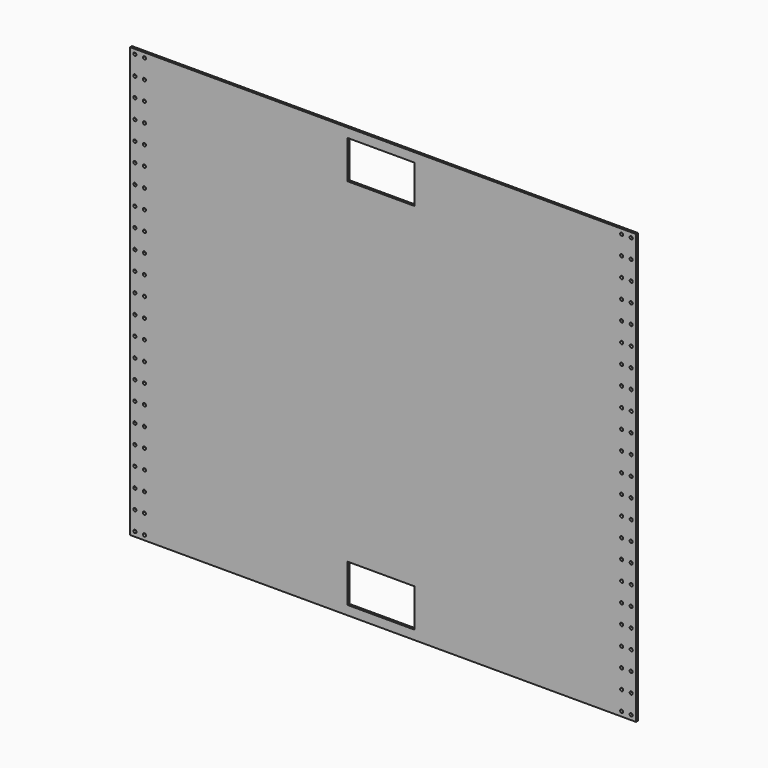
from build123d import *

# Parameters (mm, degrees)
F0_W     = 673.1
F0_H     = 571.5
F1_DEPTH = 3.175
F2_R     = 2.0701
F3_DEPTH = 25.4
F4_W     = 88.9
F4_H     = 50.8
F5_DEPTH = 25.4


with BuildPart() as f1:
    # F0 (on Front) → F1 (new body)
    with BuildSketch(Plane.XZ):
        Rectangle(F0_W, F0_H)
    extrude(amount=F1_DEPTH)

    # F2 (on face) → F3 (cut)
    with BuildSketch(Plane.XZ.offset(3.175)):
        with Locations((-330.2, -279.4)):
            Circle(F2_R)
        with Locations((-317.5, -279.4)):
            Circle(F2_R)
        with Locations((-317.5, -254)):
            Circle(F2_R)
        with Locations((-330.2, -254)):
            Circle(F2_R)
        with Locations((-330.2, -228.6)):
            Circle(F2_R)
        with Locations((-317.5, -228.6)):
            Circle(F2_R)
        with Locations((-317.5, -203.2)):
            Circle(F2_R)
        with Locations((-330.2, -203.2)):
            Circle(F2_R)
        with Locations((-330.2, -177.8)):
            Circle(F2_R)
        with Locations((-317.5, -177.8)):
            Circle(F2_R)
        with Locations((-317.5, -152.4)):
            Circle(F2_R)
        with Locations((-330.2, -152.4)):
            Circle(F2_R)
        with Locations((-330.2, -127)):
            Circle(F2_R)
        with Locations((-317.5, -127)):
            Circle(F2_R)
        with Locations((-317.5, -101.6)):
            Circle(F2_R)
        with Locations((-330.2, -101.6)):
            Circle(F2_R)
        with Locations((-330.2, -76.2)):
            Circle(F2_R)
        with Locations((-317.5, -76.2)):
            Circle(F2_R)
        with Locations((-317.5, -50.8)):
            Circle(F2_R)
        with Locations((-330.2, -50.8)):
            Circle(F2_R)
        with Locations((-330.2, -25.4)):
            Circle(F2_R)
        with Locations((-317.5, -25.4)):
            Circle(F2_R)
        with Locations((-330.2, 0)):
            Circle(F2_R)
        with Locations((-317.5, 0)):
            Circle(F2_R)
        with Locations((-317.5, 25.4)):
            Circle(F2_R)
        with Locations((-330.2, 25.4)):
            Circle(F2_R)
        with Locations((-330.2, 50.8)):
            Circle(F2_R)
        with Locations((-317.5, 50.8)):
            Circle(F2_R)
        with Locations((-317.5, 76.2)):
            Circle(F2_R)
        with Locations((-330.2, 76.2)):
            Circle(F2_R)
        with Locations((-330.2, 101.6)):
            Circle(F2_R)
        with Locations((-317.5, 101.6)):
            Circle(F2_R)
        with Locations((-330.2, 127)):
            Circle(F2_R)
        with Locations((-317.5, 127)):
            Circle(F2_R)
        with Locations((-317.5, 152.4)):
            Circle(F2_R)
        with Locations((-330.2, 152.4)):
            Circle(F2_R)
        with Locations((-330.2, 177.8)):
            Circle(F2_R)
        with Locations((-317.5, 177.8)):
            Circle(F2_R)
        with Locations((-317.5, 203.2)):
            Circle(F2_R)
        with Locations((-330.2, 203.2)):
            Circle(F2_R)
        with Locations((-330.2, 228.6)):
            Circle(F2_R)
        with Locations((-317.5, 228.6)):
            Circle(F2_R)
        with Locations((-317.5, 254)):
            Circle(F2_R)
        with Locations((-330.2, 254)):
            Circle(F2_R)
        with Locations((-330.2, 279.4)):
            Circle(F2_R)
        with Locations((-317.5, 279.4)):
            Circle(F2_R)
        with Locations((317.5, 279.4)):
            Circle(F2_R)
        with Locations((330.2, 279.4)):
            Circle(F2_R)
        with Locations((317.5, 254)):
            Circle(F2_R)
        with Locations((330.2, 254)):
            Circle(F2_R)
        with Locations((317.5, 228.6)):
            Circle(F2_R)
        with Locations((330.2, 228.6)):
            Circle(F2_R)
        with Locations((317.5, 203.2)):
            Circle(F2_R)
        with Locations((330.2, 203.2)):
            Circle(F2_R)
        with Locations((317.5, 177.8)):
            Circle(F2_R)
        with Locations((330.2, 177.8)):
            Circle(F2_R)
        with Locations((330.2, 152.4)):
            Circle(F2_R)
        with Locations((317.5, 152.4)):
            Circle(F2_R)
        with Locations((317.5, 127)):
            Circle(F2_R)
        with Locations((330.2, 127)):
            Circle(F2_R)
        with Locations((317.5, 101.6)):
            Circle(F2_R)
        with Locations((330.2, 101.6)):
            Circle(F2_R)
        with Locations((330.2, 76.2)):
            Circle(F2_R)
        with Locations((317.5, 76.2)):
            Circle(F2_R)
        with Locations((317.5, 50.8)):
            Circle(F2_R)
        with Locations((330.2, 50.8)):
            Circle(F2_R)
        with Locations((330.2, 25.4)):
            Circle(F2_R)
        with Locations((317.5, 25.4)):
            Circle(F2_R)
        with Locations((317.5, 0)):
            Circle(F2_R)
        with Locations((330.2, 0)):
            Circle(F2_R)
        with Locations((330.2, -25.4)):
            Circle(F2_R)
        with Locations((317.5, -25.4)):
            Circle(F2_R)
        with Locations((317.5, -50.8)):
            Circle(F2_R)
        with Locations((330.2, -50.8)):
            Circle(F2_R)
        with Locations((330.2, -76.2)):
            Circle(F2_R)
        with Locations((317.5, -76.2)):
            Circle(F2_R)
        with Locations((317.5, -101.6)):
            Circle(F2_R)
        with Locations((330.2, -101.6)):
            Circle(F2_R)
        with Locations((317.5, -127)):
            Circle(F2_R)
        with Locations((330.2, -127)):
            Circle(F2_R)
        with Locations((330.2, -152.4)):
            Circle(F2_R)
        with Locations((317.5, -152.4)):
            Circle(F2_R)
        with Locations((317.5, -177.8)):
            Circle(F2_R)
        with Locations((330.2, -177.8)):
            Circle(F2_R)
        with Locations((330.2, -203.2)):
            Circle(F2_R)
        with Locations((317.5, -203.2)):
            Circle(F2_R)
        with Locations((317.5, -228.6)):
            Circle(F2_R)
        with Locations((317.5, -254)):
            Circle(F2_R)
        with Locations((317.5, -279.4)):
            Circle(F2_R)
        with Locations((330.2, -279.4)):
            Circle(F2_R)
        with Locations((330.2, -254)):
            Circle(F2_R)
        with Locations((330.2, -228.6)):
            Circle(F2_R)
    extrude(amount=-F3_DEPTH, mode=Mode.SUBTRACT)

    # F4 (on face) → F5 (cut)
    with BuildSketch(Plane.XZ.offset(3.175)):
        with Locations((-2.54, -248.158)):
            Rectangle(F4_W, F4_H)
        with Locations((-2.54, 248.158)):
            Rectangle(F4_W, F4_H)
    extrude(amount=-F5_DEPTH, mode=Mode.SUBTRACT)


solid = f1.part
